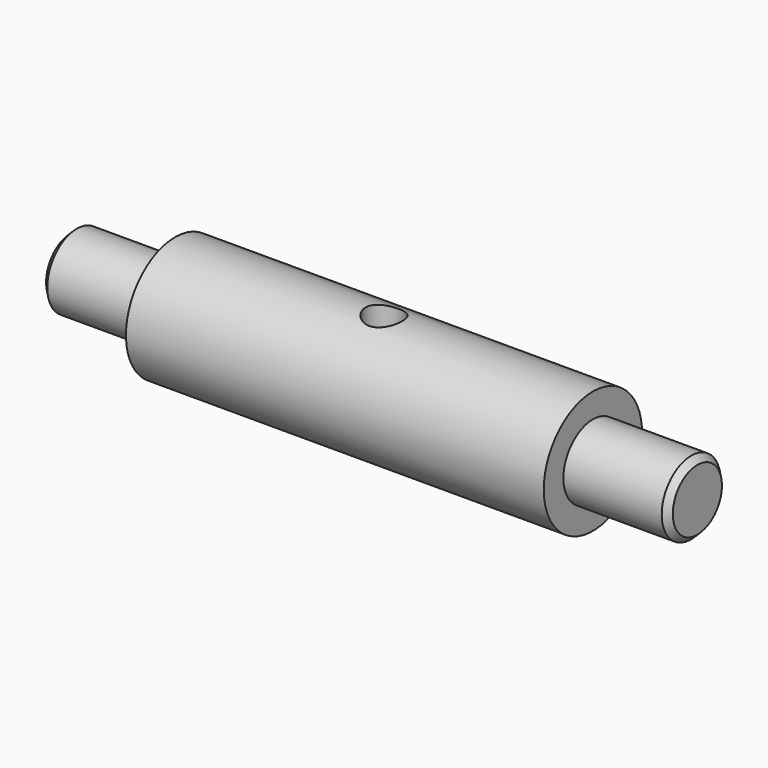
from build123d import *

# Parameters (mm, degrees)
F2_SIZE  = 1
F3_R     = 3
F4_DEPTH = 57
F5_R     = 3
F6_DEPTH = 32


with BuildPart() as f1:
    # F0 (on Front) → F1 (revolve)
    with BuildSketch(Plane.XZ):
        Polygon((-51, 6), (-51, 0), (51, 0), (51, 6), (34, 6), (34, 10), (-34, 10), (-34, 6), align=None)
    revolve(axis=Axis((0, 0, 0), (1, 0, 0)))

    # F2
    f2_edges = [f1.edges().sort_by_distance(p)[0] for p in [
        (51, 0, -6),
        (-51, 0, -6),
    ]]
    chamfer(f2_edges, length=F2_SIZE)

    # F3 (on face) → F4 (cut)
    with BuildSketch(Plane(origin=(-51, 0, 0), x_dir=(0, -1, 0), z_dir=(-1, 0, 0))):
        Circle(F3_R)
    extrude(amount=-F4_DEPTH, mode=Mode.SUBTRACT)

    # F5 (on Top) → F6 (cut)
    with BuildSketch(Plane.XY):
        Circle(F5_R)
    extrude(amount=F6_DEPTH, mode=Mode.SUBTRACT)


solid = f1.part
